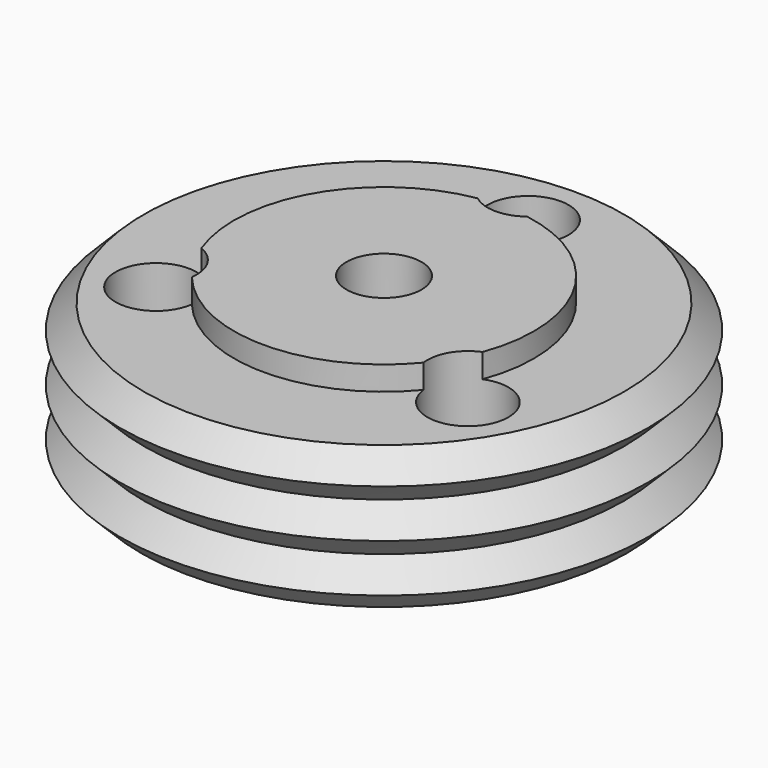
from build123d import *

# Parameters (mm, degrees)
CYLINDER001_R     = 1.35
CYLINDER001_DEPTH = 10
ARRAY001_COUNT    = 3
CYLINDER_R        = 4.1
CYLINDER_DEPTH    = 2.25
SKETCH002_W       = 5
SKETCH002_H       = 4.7
ARRAY_Z_COUNT     = 6
ARRAY_Z_PITCH     = 1.6


with BuildPart() as obj1:
    # Cylinder001 → Cylinder001 (new body)
    with BuildSketch(Plane(origin=(0, 6, -4), x_dir=(1, 0, 0), z_dir=(0, 0, 1))):
        Circle(CYLINDER001_R)
    extrude(amount=CYLINDER001_DEPTH)

    # Array001: obj1 ×3 about axis
    array001_axis = Axis((0, 0, 0), (0, 0, 1))


with BuildPart() as obj1_1:
    add(obj1.part)
    for i in range(1, ARRAY001_COUNT):
        add(obj1.part.rotate(array001_axis, i * 360 / ARRAY001_COUNT))


with BuildPart() as lensfit:
    # Cylinder → Cylinder (new body)
    with BuildSketch(Plane.XY.offset(-1)):
        Circle(CYLINDER_R)
    extrude(amount=CYLINDER_DEPTH)


with BuildPart() as obj2:
    # Sketch002 → Revolution002 (revolve)
    with BuildSketch(Plane.XZ):
        with Locations((7.5, 0.85)):
            Rectangle(SKETCH002_W, SKETCH002_H)
    revolve(axis=Axis((0, 0, 0), (0, 0, 1)))


with BuildPart() as innergroovetool:
    # Sketch001 → Revolution001 (revolve)
    with BuildSketch(Plane.XZ):
        Polygon((4, 3.2), (4, 1.6), (8, 1.6), (8.8, 2.4), (8, 3.2), align=None)
    revolve(axis=Axis((0, 0, 0), (0, 0, 1)))

    # Array Z: InnerGrooveTool ×6


with BuildPart() as innergroovetool_1:
    add(innergroovetool.part)
    with Locations(*[(0, 0, -i * ARRAY_Z_PITCH) for i in range(1, ARRAY_Z_COUNT)]):
        add(innergroovetool.part)

    # Common: intersect obj2
    add(obj2.part, mode=Mode.INTERSECT)


with BuildPart() as boltcuts:
    # Sketch → Revolution (revolve)
    with BuildSketch(Plane.XZ):
        Polygon((1.25, 4), (1.25, -1.5), (8, -1.5), (8, 3.2), (5, 3.2), (5, 4), align=None)
    revolve(axis=Axis((0, 0, 0), (0, 0, 1)))

    # Fusion001: union InnerGrooveTool
    add(innergroovetool_1.part)

    # Cut: cut LensFit
    add(lensfit.part, mode=Mode.SUBTRACT)

    # Cut001: cut obj1
    add(obj1_1.part, mode=Mode.SUBTRACT)


solid = boltcuts.part
